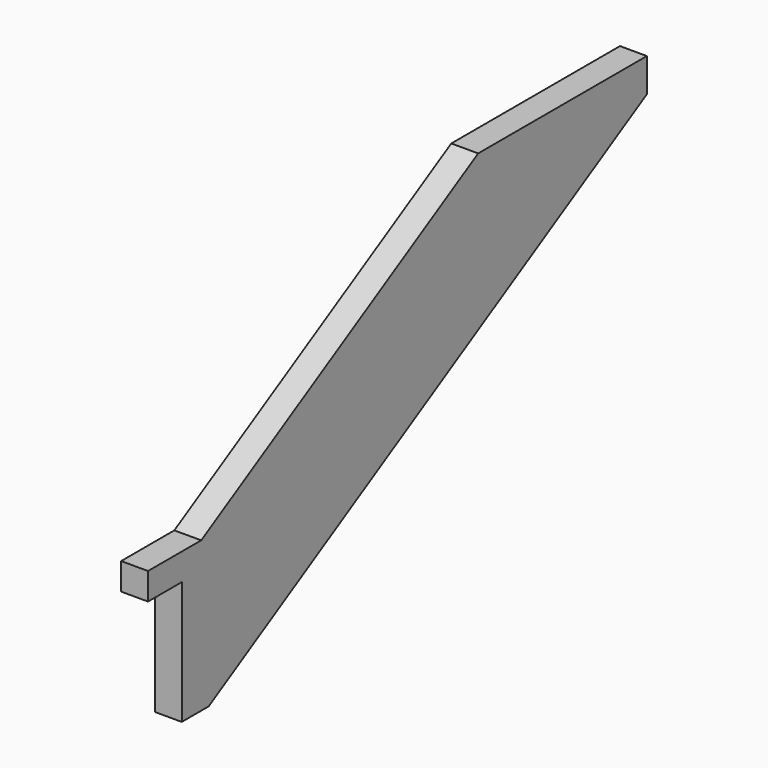
from build123d import *

# Parameters (mm, degrees)
F1_DEPTH = 40


with BuildPart() as f1:
    # F0 (on Right) → F1 (new body)
    with BuildSketch(Plane.YZ):
        Polygon((100, 182.927519083), (100, 202.0725942164), (136.1217894571, 222.927519083), (37.343967706, 222.927519083), (37.343967706, 182.927519083), align=None)
        Polygon((136.1217894571, 222.927519083), (100, 202.0725942164), (100, 182.927519083), (357.343967706, 182.927519083), (357.343967706, 222.927519083), align=None)
        Polygon((650.6664199358, 520), (136.1217894571, 222.927519083), (357.343967706, 222.927519083), (357.343967706, 182.927519083), (100, 182.927519083), (100, 0), (150, 0), (964.0638795574, 470), (964.0638795574, 520), align=None)
    extrude(amount=F1_DEPTH)


solid = f1.part
